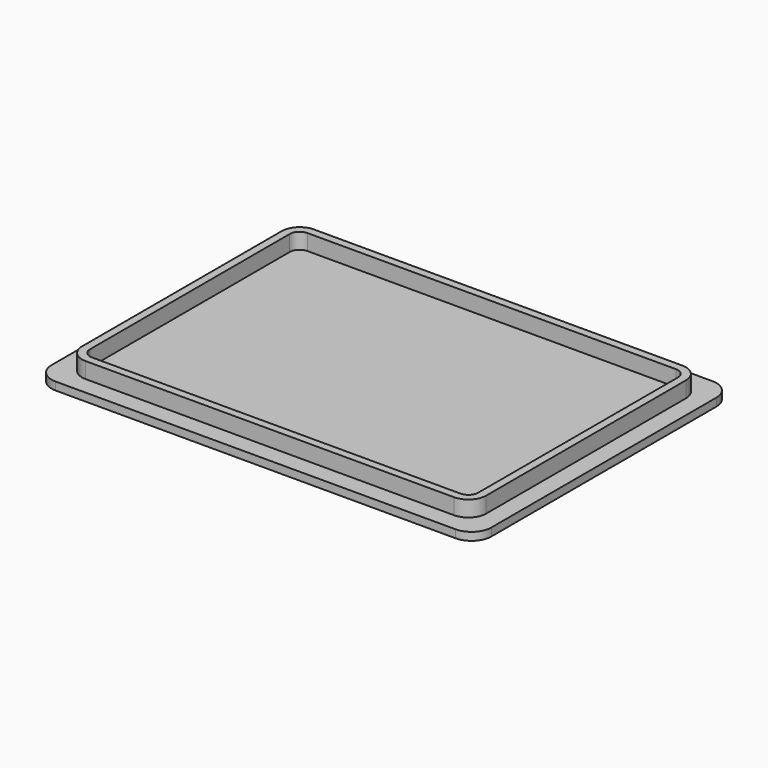
from build123d import *

# Parameters (mm, degrees)
PAD_DEPTH    = 2
PAD001_DEPTH = 4


with BuildPart() as part:
    # Sketch → Pad (new body)
    with BuildSketch(Plane.XY):
        with BuildLine():
            ThreePointArc((-50.500002, 40.499998), (-54.035539, 39.035536), (-55.50001, 35.500002))
            Line((-55.50001, -35.499998), (-55.50001, 35.500002))
            ThreePointArc((-55.50001, -35.499998), (-54.035544, -39.035532), (-50.50001, -40.499998))
            Line((50.49999, -40.499998), (-50.50001, -40.499998))
            ThreePointArc((50.49999, -40.499998), (54.035535, -39.03554), (55.50001, -35.500002))
            Line((55.50001, 35.499998), (55.50001, -35.500002))
            ThreePointArc((55.50001, 35.499998), (54.03554, 39.035536), (50.499998, 40.499998))
            Line((-50.500002, 40.499998), (50.499998, 40.499998))
        make_face()
    extrude(amount=PAD_DEPTH)

    # Sketch001 (on Face10 of Pad) → Pad001 (join)
    with BuildSketch(Plane.XY.offset(2)):
        with BuildLine():
            ThreePointArc((50.999999, 31.5), (49.68198, 34.68198), (46.500001, 36))
            Line((46.500001, 36), (-46.499999, 36))
            ThreePointArc((-46.499999, 36), (-49.68198, 34.68198), (-50.999999, 31.5))
            Line((-50.999999, 31.5), (-50.999999, -31.500002))
            ThreePointArc((-50.999999, -31.500002), (-49.681979, -34.681981), (-46.5, -36))
            Line((46.499999, -36), (-46.5, -36))
            ThreePointArc((46.499999, -36), (49.68198, -34.68198), (50.999999, -31.5))
            Line((50.999999, 31.5), (50.999999, -31.5))
        make_face()
        with BuildLine():
            ThreePointArc((-46.499999, 34), (-48.267766, 33.267767), (-48.999999, 31.5))
            Line((-48.999999, -31.500002), (-48.999999, 31.5))
            ThreePointArc((-48.999999, -31.500002), (-48.267765, -33.267769), (-46.499997, -34))
            Line((-46.499997, -34), (46.499999, -34))
            ThreePointArc((46.499999, -34), (48.267766, -33.267767), (48.999999, -31.5))
            Line((48.999999, -31.5), (48.999999, 31.499997))
            ThreePointArc((48.999999, 31.499997), (48.267765, 33.267768), (46.499994, 34))
            Line((-46.499999, 34), (46.499994, 34))
        make_face(mode=Mode.SUBTRACT)
    extrude(amount=PAD001_DEPTH)


solid = part.part
